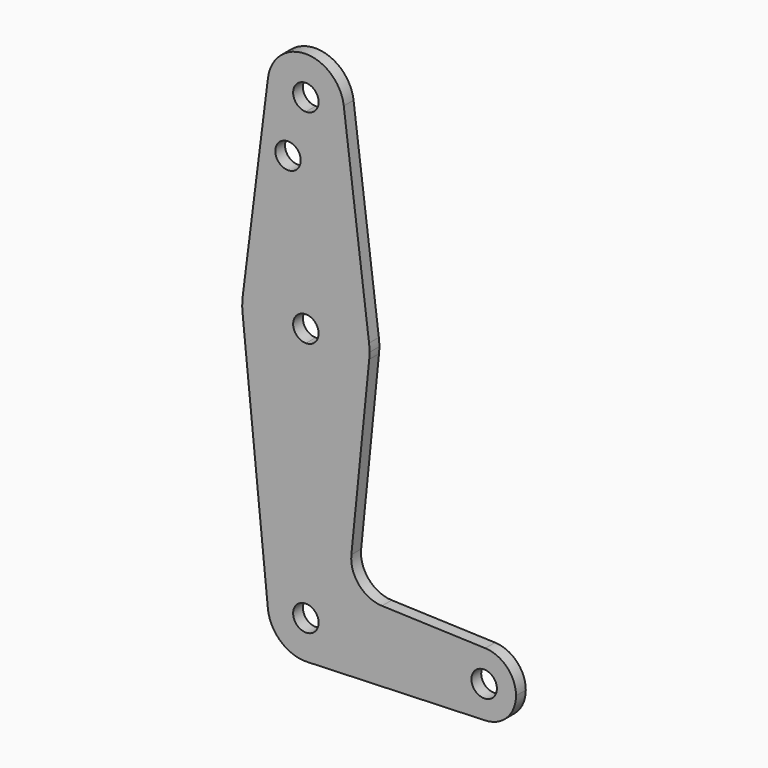
from build123d import *

# Parameters (mm, degrees)
F0_R     = 3.175
F1_DEPTH = 3.048


with BuildPart() as f1:
    # F0 (on Front) → F1 (new body)
    with BuildSketch(Plane.XZ):
        with BuildLine():
            ThreePointArc((-41.9512719324, 63.1715963702), (-39.6447289681, 55.6807760608), (-32.5009789681, 52.4559713702))
            ThreePointArc((-32.5009789681, 52.4559713702), (-25.7657868773, 55.2457792794), (-22.9759789681, 61.9809713702))
            ThreePointArc((-22.9759789681, 61.9809713702), (-22.9946740739, 62.5774546122), (-23.0506860039, 63.1715963702))
            ThreePointArc((-23.0506860039, 63.1715963702), (-32.5009789681, 71.5059713702), (-41.9512719324, 63.1715963702))
        make_face()
        with BuildLine():
            ThreePointArc((-29.3259789681, 61.9809713702), (-30.2559149379, 59.73590734), (-32.5009789681, 58.8059713702))
            ThreePointArc((-32.5009789681, 58.8059713702), (-34.7460429984, 64.2260354005), (-29.3259789681, 61.9809713702))
        make_face(mode=Mode.SUBTRACT)
        with BuildLine():
            ThreePointArc((-22.9759789681, 61.9809713702), (-25.7657868773, 55.2457792794), (-32.5009789681, 52.4559713702))
            Line((-32.5009789681, 52.4559713702), (-32.5009789681, 27.0559713702))
            ThreePointArc((-32.5009789681, 27.0559713702), (-22.0006534524, 23.0872213702), (-16.7504906945, 13.1653463702))
            Line((-16.7504906945, 13.1653463702), (-23.0506860039, 63.1715963702))
            ThreePointArc((-23.0506860039, 63.1715963702), (-22.9946740739, 62.5774546122), (-22.9759789681, 61.9809713702))
        make_face()
        with BuildLine():
            Line((-32.5009789681, 27.0559713702), (-32.5009789681, 52.4559713702))
            ThreePointArc((-32.5009789681, 52.4559713702), (-39.6447289681, 55.6807760608), (-41.9512719324, 63.1715963702))
            Line((-41.9512719324, 63.1715963702), (-48.2514672418, 13.1653463702))
            ThreePointArc((-48.2514672418, 13.1653463702), (-43.0013044839, 23.0872213702), (-32.5009789681, 27.0559713702))
        make_face()
        with Locations((-36.9527116418, 47.7061713702)):
            Circle(F0_R, mode=Mode.SUBTRACT)
        with BuildLine():
            ThreePointArc((-16.7504906945, 13.1653463702), (-22.0006534524, 23.0872213702), (-32.5009789681, 27.0559713702))
            Line((-32.5009789681, 27.0559713702), (-32.5009789681, 14.3559713702))
            ThreePointArc((-32.5009789681, 14.3559713702), (-30.2559149379, 13.4260354005), (-29.3259789681, 11.1809713702))
            ThreePointArc((-29.3259789681, 11.1809713702), (-30.2559149379, 8.93590734), (-32.5009789681, 8.0059713702))
            Line((-32.5009789681, 8.0059713702), (-32.5009789681, -4.6940286298))
            ThreePointArc((-32.5009789681, -4.6940286298), (-21.8517052253, -0.592243728), (-16.7055534041, 9.5934713702))
            ThreePointArc((-16.7055534041, 9.5934713702), (-16.6458850575, 10.3862248162), (-16.6259789681, 11.1809713702))
            ThreePointArc((-16.6259789681, 11.1809713702), (-16.6571374778, 12.1751101069), (-16.7504906945, 13.1653463702))
        make_face()
        with BuildLine():
            Line((-32.5009789681, 14.3559713702), (-32.5009789681, 27.0559713702))
            ThreePointArc((-32.5009789681, 27.0559713702), (-43.0013044839, 23.0872213702), (-48.2514672418, 13.1653463702))
            ThreePointArc((-48.2514672418, 13.1653463702), (-48.3747227836, 11.3806768569), (-48.2964045322, 9.5934713702))
            ThreePointArc((-48.2964045322, 9.5934713702), (-43.150252711, -0.592243728), (-32.5009789681, -4.6940286298))
            Line((-32.5009789681, -4.6940286298), (-32.5009789681, 8.0059713702))
            ThreePointArc((-32.5009789681, 8.0059713702), (-35.6759789681, 11.1809713702), (-32.5009789681, 14.3559713702))
        make_face()
        with BuildLine():
            ThreePointArc((-32.5009789681, -4.6940286298), (-43.150252711, -0.592243728), (-48.2964045322, 9.5934713702))
            Line((-48.2964045322, 9.5934713702), (-41.9782343066, -53.2715286298))
            ThreePointArc((-41.9782343066, -53.2715286298), (-39.5649080271, -45.9294643841), (-32.5009789681, -42.7940286298))
            Line((-32.5009789681, -42.7940286298), (-32.5009789681, -4.6940286298))
        make_face()
        with BuildLine():
            ThreePointArc((-16.7055534041, 9.5934713702), (-21.8517052253, -0.592243728), (-32.5009789681, -4.6940286298))
            Line((-32.5009789681, -4.6940286298), (-32.5009789681, -42.7940286298))
            ThreePointArc((-32.5009789681, -42.7940286298), (-25.7657868773, -45.583836539), (-22.9759789681, -52.3190286298))
            Line((-22.9759789681, -52.3190286298), (4.0115210319, -52.3190286298))
            ThreePointArc((4.0115210319, -52.3190286298), (6.4374982504, -46.6070217251), (12.2325031747, -44.3865924261))
            Line((12.2325031747, -44.3865924261), (-13.5333789676, -43.4657949189))
            ThreePointArc((-13.5333789676, -43.4657949189), (-19.2397790708, -40.7476694799), (-21.1597923758, -34.7256468174))
            Line((-21.1597923758, -34.7256468174), (-16.7055534041, 9.5934713702))
        make_face()
        with BuildLine():
            ThreePointArc((-32.5009789681, -42.7940286298), (-39.5649080271, -45.9294643841), (-41.9782343066, -53.2715286298))
            ThreePointArc((-41.9782343066, -53.2715286298), (-38.7633623498, -59.4959485389), (-32.1608003967, -61.8379520741))
            ThreePointArc((-32.1608003967, -61.8379520741), (-25.6465706825, -58.9328559675), (-22.9759789681, -52.3190286298))
            Line((-22.9759789681, -52.3190286298), (-29.3259789681, -52.3190286298))
            ThreePointArc((-29.3259789681, -52.3190286298), (-34.7460429984, -54.56409266), (-32.5009789681, -49.1440286298))
            Line((-32.5009789681, -49.1440286298), (-32.5009789681, -42.7940286298))
        make_face()
        with BuildLine():
            ThreePointArc((-22.9759789681, -52.3190286298), (-25.6465706825, -58.9328559675), (-32.1608003967, -61.8379520741))
            Line((-32.1608003967, -61.8379520741), (12.2325031747, -60.2514648334))
            ThreePointArc((12.2325031747, -60.2514648334), (6.4374982504, -58.0310355345), (4.0115210319, -52.3190286298))
            Line((4.0115210319, -52.3190286298), (-22.9759789681, -52.3190286298))
        make_face()
        with BuildLine():
            ThreePointArc((4.0115210319, -52.3190286298), (6.4374982504, -58.0310355345), (12.2325031747, -60.2514648334))
            ThreePointArc((12.2325031747, -60.2514648334), (17.6610279366, -57.8305514112), (19.8865210319, -52.3190286298))
            ThreePointArc((19.8865210319, -52.3190286298), (17.6610279366, -46.8075058483), (12.2325031747, -44.3865924261))
            ThreePointArc((12.2325031747, -44.3865924261), (6.4374982504, -46.6070217251), (4.0115210319, -52.3190286298))
        make_face()
        with BuildLine():
            ThreePointArc((15.1240210319, -52.3190286298), (11.9490210319, -55.4940286298), (8.7740210319, -52.3190286298))
            ThreePointArc((8.7740210319, -52.3190286298), (11.9490210319, -49.1440286298), (15.1240210319, -52.3190286298))
        make_face(mode=Mode.SUBTRACT)
        with BuildLine():
            ThreePointArc((-22.9759789681, -52.3190286298), (-25.7657868773, -45.583836539), (-32.5009789681, -42.7940286298))
            Line((-32.5009789681, -42.7940286298), (-32.5009789681, -49.1440286298))
            ThreePointArc((-32.5009789681, -49.1440286298), (-30.2559149379, -50.0739645995), (-29.3259789681, -52.3190286298))
            Line((-29.3259789681, -52.3190286298), (-22.9759789681, -52.3190286298))
        make_face()
    extrude(amount=F1_DEPTH)


solid = f1.part
